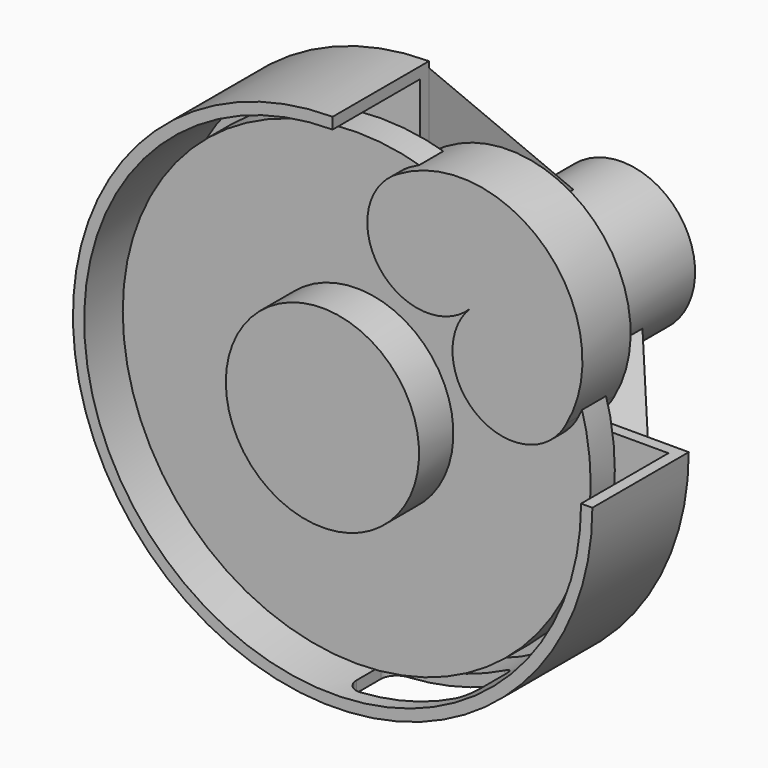
from build123d import *

# Parameters (mm, degrees)
F3_DEPTH       = 25.4
F5_DEPTH       = 86.959564
F7_DEPTH       = 9.525
F8_COUNT       = 3
F10_DEPTH      = 12.7
F10_DEPTH_BACK = 38.1
F12_DEPTH      = 25.4
F12_DEPTH_BACK = 25.4
F13_R          = 12.7


with BuildPart() as f1:
    # F0 (on Top) → F1 (revolve)
    with BuildSketch(Plane.XY):
        Polygon((-61.874948, 12.7), (-197.358, 12.7), (-197.358, -12.7), (-81.49384, -12.7), (-81.49384, -48.858564), (0, -48.858564), (0, 266.7), (-61.874948, 266.7), (-61.874948, 63.5), (-209.55, 63.5), (-219.075, 63.5), (-219.075, -38.1), (-209.55, -38.1), (-209.55, 53.975), (-61.874948, 53.975), align=None)
    revolve(axis=Axis((0, 108.920718, 0), (0, 1, 0)))

    # F2 (on face) → F3 (cut)
    with BuildSketch(Plane(origin=(0, 63.5, 0), x_dir=(-1, 0, 0), z_dir=(0, 1, 0))):
        Polygon((-219.075, 219.075), (-219.075, 0), (-117.475, 0), (0, 117.475), (0, 219.075), align=None)
    extrude(amount=-F3_DEPTH, mode=Mode.SUBTRACT)

    # F4 (on face) → F5 (cut, through all)
    with BuildSketch(Plane(origin=(0, 38.1, 0), x_dir=(-1, 0, 0), z_dir=(0, 1, 0))):
        with BuildLine():
            Line((0, 209.55), (0, 219.075))
            ThreePointArc((0, 219.075), (-154.909418, 154.909418), (-219.075, 0))
            Line((-219.075, 0), (-209.55, 0))
            ThreePointArc((-209.55, 0), (-148.174226, 148.174226), (0, 209.55))
        make_face()
    extrude(amount=-F5_DEPTH, mode=Mode.SUBTRACT)

    # F11 (on Front) → F12 (cut, two sides)
    with BuildSketch(Plane.XZ) as f12_sk:
        with BuildLine():
            ThreePointArc((101.6, -175.976362), (52.59203, -196.276128), (0, -203.2))
            Line((0, -203.2), (0, -230.313926))
            ThreePointArc((0, -230.313926), (59.60963, -222.466169), (115.156963, -199.457711))
            Line((115.156963, -199.457711), (101.6, -175.976362))
        make_face()
    extrude(amount=F12_DEPTH, mode=Mode.SUBTRACT)
    extrude(f12_sk.sketch, amount=-F12_DEPTH_BACK, mode=Mode.SUBTRACT)

    # F13
    f13_edges = [f1.edges().sort_by_distance(p)[0] for p in [
        (0, 25.4, -214.3125),
        (107.15625, 25.4, -185.600069),
        (107.15625, -25.4, -185.600069),
        (0, -25.4, -214.3125),
    ]]
    fillet(f13_edges, radius=F13_R)


with BuildPart() as f7:
    # F6 (on Right) → F7 (new body)
    with BuildSketch(Plane.YZ):
        Polygon((63.5, 213.995), (63.5, 61.595), (215.9, 61.595), align=None)
    extrude(amount=-F7_DEPTH)


with BuildPart() as f8_1:
    # F8: instance of F7
    add(f7.part.rotate(Axis((0, 266.7, 0), (0, 1, 0)), 1 * 360 / F8_COUNT))


with BuildPart() as f8_2:
    # F8: instance of F7
    add(f7.part.rotate(Axis((0, 266.7, 0), (0, 1, 0)), 2 * 360 / F8_COUNT))


with BuildPart() as f10:
    # F9 (on face) → F10 (new body, two sides)
    with BuildSketch(Plane.XZ.offset(12.7)) as f10_sk:
        with BuildLine():
            ThreePointArc((40.0978, 182.874013), (42.634079, 184.540246), (45.218457, 186.130855))
            ThreePointArc((45.218457, 186.130855), (42.609451, 184.578967), (40.0978, 182.874013))
        make_face()
        with BuildLine():
            ThreePointArc((187.085497, 47.022866), (169.71806, 171.205367), (45.218457, 186.130855))
            ThreePointArc((45.218457, 186.130855), (42.634079, 184.540246), (40.0978, 182.874013))
            ThreePointArc((40.0978, 182.874013), (31.209538, 108.76229), (105.793274, 105.793274))
            ThreePointArc((105.793274, 105.793274), (107.978575, 31.89145), (181.622144, 38.439721))
            ThreePointArc((181.622144, 38.439721), (184.460122, 42.66363), (187.085497, 47.022866))
        make_face()
        with BuildLine():
            ThreePointArc((181.622144, 38.439721), (184.569245, 42.594171), (187.085497, 47.022866))
            ThreePointArc((187.085497, 47.022866), (184.460122, 42.66363), (181.622144, 38.439721))
        make_face()
    extrude(amount=F10_DEPTH)
    extrude(f10_sk.sketch, amount=-F10_DEPTH_BACK)


solid = Compound([f1.part, f7.part, f8_1.part, f8_2.part, f10.part])
